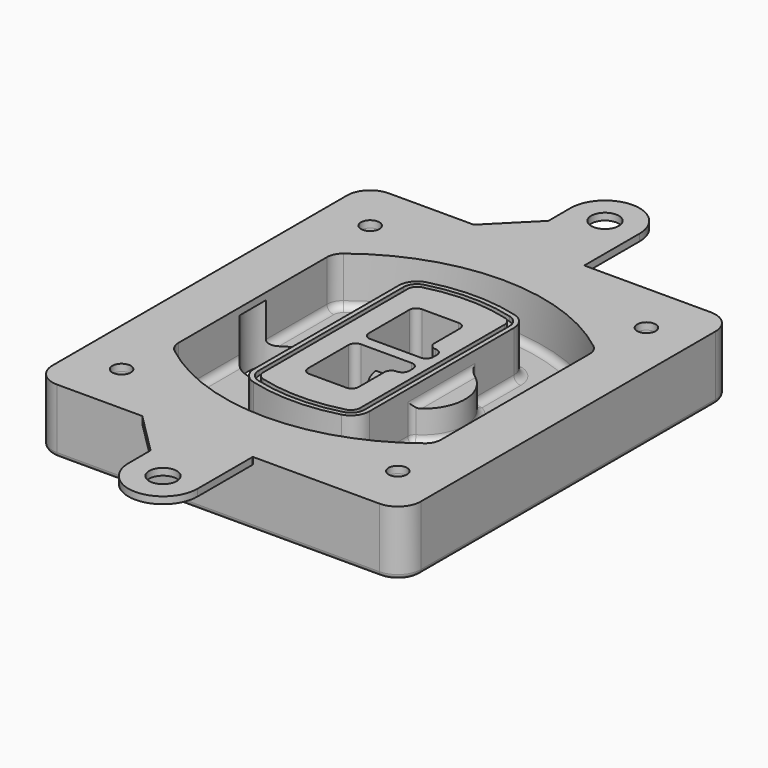
from build123d import *

# Parameters (mm, degrees)
F0_R      = 4
F1_DEPTH  = 25
F2_DEPTH  = 3
F3_DEPTH  = 18
F5_DEPTH  = 21
F6_DEPTH  = 2
F8_DEPTH  = 20
F9_DEPTH  = 16
F10_DEPTH = 25
F7_R      = 6
F7_R_2    = 4
F11_DEPTH = 6
F13_DEPTH = 9
F14_R     = 3
F15_R     = 2
F16_R     = 6
F16_R_2   = 4
F17_DEPTH = 3


with BuildPart() as f1:
    # F0 (on Top) → F1 (new body)
    with BuildSketch(Plane.XY):
        with BuildLine():
            ThreePointArc((-80, -80), (-77.0710678119, -87.0710678119), (-70, -90))
            Line((-70, -90), (70, -90))
            ThreePointArc((70, -90), (77.0710678119, -87.0710678119), (80, -80))
            Line((80, -80), (80, 80))
            ThreePointArc((80, 80), (77.0710678119, 87.0710678119), (70, 90))
            Line((70, 90), (-70, 90))
            ThreePointArc((-70, 90), (-77.0710678119, 87.0710678119), (-80, 80))
            Line((-80, 80), (-80, -80))
        make_face()
        with Locations((-60, -67.5)):
            Circle(F0_R, mode=Mode.SUBTRACT)
        with Locations((60, -67.5)):
            Circle(F0_R, mode=Mode.SUBTRACT)
        with Locations((-60, 67.5)):
            Circle(F0_R, mode=Mode.SUBTRACT)
        with BuildLine():
            ThreePointArc((-64, 40.2934422872), (-62.5820384798, 46.4328484224), (-58.6153846154, 51.3286200352))
            ThreePointArc((-58.6153846154, 51.3286200352), (0, 71.5), (58.6153846154, 51.3286200352))
            ThreePointArc((58.6153846154, 51.3286200352), (62.5820384798, 46.4328484224), (64, 40.2934422872))
            Line((64, 40.2934422872), (64, -40.2934422872))
            ThreePointArc((64, -40.2934422872), (62.5820384798, -46.4328484224), (58.6153846154, -51.3286200352))
            ThreePointArc((58.6153846154, -51.3286200352), (0, -71.5), (-58.6153846154, -51.3286200352))
            ThreePointArc((-58.6153846154, -51.3286200352), (-62.5820384798, -46.4328484224), (-64, -40.2934422872))
            Line((-64, -40.2934422872), (-64, 40.2934422872))
        make_face(mode=Mode.SUBTRACT)
        with Locations((60, 67.5)):
            Circle(F0_R, mode=Mode.SUBTRACT)
        with BuildLine():
            ThreePointArc((58.6153846154, 51.3286200352), (0, 71.5), (-58.6153846154, 51.3286200352))
            ThreePointArc((-58.6153846154, 51.3286200352), (-62.5820384798, 46.4328484224), (-64, 40.2934422872))
            Line((-64, 40.2934422872), (-64, -40.2934422872))
            ThreePointArc((-64, -40.2934422872), (-62.5820384798, -46.4328484224), (-58.6153846154, -51.3286200352))
            ThreePointArc((-58.6153846154, -51.3286200352), (0, -71.5), (58.6153846154, -51.3286200352))
            ThreePointArc((58.6153846154, -51.3286200352), (62.5820384798, -46.4328484224), (64, -40.2934422872))
            Line((64, -40.2934422872), (64, 40.2934422872))
            ThreePointArc((64, 40.2934422872), (62.5820384798, 46.4328484224), (58.6153846154, 51.3286200352))
        make_face()
        with BuildLine():
            Line((-60, -40.2934422872), (-60, 40.2934422872))
            ThreePointArc((-60, 40.2934422872), (-58.9871703427, 44.6787323838), (-56.1538461538, 48.1757121072))
            ThreePointArc((-56.1538461538, 48.1757121072), (0, 67.5), (56.1538461538, 48.1757121072))
            ThreePointArc((56.1538461538, 48.1757121072), (58.9871703427, 44.6787323838), (60, 40.2934422872))
            Line((60, 40.2934422872), (60, -40.2934422872))
            ThreePointArc((60, -40.2934422872), (58.9871703427, -44.6787323838), (56.1538461538, -48.1757121072))
            ThreePointArc((56.1538461538, -48.1757121072), (0, -67.5), (-56.1538461538, -48.1757121072))
            ThreePointArc((-56.1538461538, -48.1757121072), (-58.9871703427, -44.6787323838), (-60, -40.2934422872))
        make_face(mode=Mode.SUBTRACT)
        with BuildLine():
            ThreePointArc((-56.1538461538, 48.1757121072), (-58.9871703427, 44.6787323838), (-60, 40.2934422872))
            Line((-60, 40.2934422872), (-60, -40.2934422872))
            ThreePointArc((-60, -40.2934422872), (-58.9871703427, -44.6787323838), (-56.1538461538, -48.1757121072))
            ThreePointArc((-56.1538461538, -48.1757121072), (0, -67.5), (56.1538461538, -48.1757121072))
            ThreePointArc((56.1538461538, -48.1757121072), (58.9871703427, -44.6787323838), (60, -40.2934422872))
            Line((60, -40.2934422872), (60, 40.2934422872))
            ThreePointArc((60, 40.2934422872), (58.9871703427, 44.6787323838), (56.1538461538, 48.1757121072))
            ThreePointArc((56.1538461538, 48.1757121072), (0, 67.5), (-56.1538461538, 48.1757121072))
        make_face()
        with BuildLine():
            ThreePointArc((54.3076923077, 45.8110311612), (56.2910192399, 43.3631453548), (57, 40.2934422872))
            Line((57, 40.2934422872), (57, -40.2934422872))
            ThreePointArc((57, -40.2934422872), (56.2910192399, -43.3631453548), (54.3076923077, -45.8110311612))
            ThreePointArc((54.3076923077, -45.8110311612), (0, -64.5), (-54.3076923077, -45.8110311612))
            ThreePointArc((-54.3076923077, -45.8110311612), (-56.2910192399, -43.3631453548), (-57, -40.2934422872))
            Line((-57, -40.2934422872), (-57, 40.2934422872))
            ThreePointArc((-57, 40.2934422872), (-56.2910192399, 43.3631453548), (-54.3076923077, 45.8110311612))
            ThreePointArc((-54.3076923077, 45.8110311612), (0, 64.5), (54.3076923077, 45.8110311612))
        make_face(mode=Mode.SUBTRACT)
        with BuildLine():
            Line((57, -40.2934422872), (57, 40.2934422872))
            ThreePointArc((57, 40.2934422872), (56.2910192399, 43.3631453548), (54.3076923077, 45.8110311612))
            ThreePointArc((54.3076923077, 45.8110311612), (0, 64.5), (-54.3076923077, 45.8110311612))
            ThreePointArc((-54.3076923077, 45.8110311612), (-56.2910192399, 43.3631453548), (-57, 40.2934422872))
            Line((-57, 40.2934422872), (-57, -40.2934422872))
            ThreePointArc((-57, -40.2934422872), (-56.2910192399, -43.3631453548), (-54.3076923077, -45.8110311612))
            ThreePointArc((-54.3076923077, -45.8110311612), (0, -64.5), (54.3076923077, -45.8110311612))
            ThreePointArc((54.3076923077, -45.8110311612), (56.2910192399, -43.3631453548), (57, -40.2934422872))
        make_face()
    extrude(amount=-F1_DEPTH)

    # F0 (on Top) → F2 (join)
    with BuildSketch(Plane.XY):
        with BuildLine():
            ThreePointArc((-56.1538461538, 48.1757121072), (-58.9871703427, 44.6787323838), (-60, 40.2934422872))
            Line((-60, 40.2934422872), (-60, -40.2934422872))
            ThreePointArc((-60, -40.2934422872), (-58.9871703427, -44.6787323838), (-56.1538461538, -48.1757121072))
            ThreePointArc((-56.1538461538, -48.1757121072), (0, -67.5), (56.1538461538, -48.1757121072))
            ThreePointArc((56.1538461538, -48.1757121072), (58.9871703427, -44.6787323838), (60, -40.2934422872))
            Line((60, -40.2934422872), (60, 40.2934422872))
            ThreePointArc((60, 40.2934422872), (58.9871703427, 44.6787323838), (56.1538461538, 48.1757121072))
            ThreePointArc((56.1538461538, 48.1757121072), (0, 67.5), (-56.1538461538, 48.1757121072))
        make_face()
        with BuildLine():
            ThreePointArc((54.3076923077, 45.8110311612), (56.2910192399, 43.3631453548), (57, 40.2934422872))
            Line((57, 40.2934422872), (57, -40.2934422872))
            ThreePointArc((57, -40.2934422872), (56.2910192399, -43.3631453548), (54.3076923077, -45.8110311612))
            ThreePointArc((54.3076923077, -45.8110311612), (0, -64.5), (-54.3076923077, -45.8110311612))
            ThreePointArc((-54.3076923077, -45.8110311612), (-56.2910192399, -43.3631453548), (-57, -40.2934422872))
            Line((-57, -40.2934422872), (-57, 40.2934422872))
            ThreePointArc((-57, 40.2934422872), (-56.2910192399, 43.3631453548), (-54.3076923077, 45.8110311612))
            ThreePointArc((-54.3076923077, 45.8110311612), (0, 64.5), (54.3076923077, 45.8110311612))
        make_face(mode=Mode.SUBTRACT)
    extrude(amount=F2_DEPTH)

    # F0 (on Top) → F3 (cut)
    with BuildSketch(Plane.XY):
        with BuildLine():
            Line((57, -40.2934422872), (57, 40.2934422872))
            ThreePointArc((57, 40.2934422872), (56.2910192399, 43.3631453548), (54.3076923077, 45.8110311612))
            ThreePointArc((54.3076923077, 45.8110311612), (0, 64.5), (-54.3076923077, 45.8110311612))
            ThreePointArc((-54.3076923077, 45.8110311612), (-56.2910192399, 43.3631453548), (-57, 40.2934422872))
            Line((-57, 40.2934422872), (-57, -40.2934422872))
            ThreePointArc((-57, -40.2934422872), (-56.2910192399, -43.3631453548), (-54.3076923077, -45.8110311612))
            ThreePointArc((-54.3076923077, -45.8110311612), (0, -64.5), (54.3076923077, -45.8110311612))
            ThreePointArc((54.3076923077, -45.8110311612), (56.2910192399, -43.3631453548), (57, -40.2934422872))
        make_face()
    extrude(amount=-F3_DEPTH, mode=Mode.SUBTRACT)

    # F4 (on face) → F5 (join, through all)
    with BuildSketch(Plane.XY.offset(3)):
        with BuildLine():
            ThreePointArc((-25, -39.2465276821), (-23.3511545998, -44.1109737193), (-19.0842911877, -46.9702398883))
            ThreePointArc((-19.0842911877, -46.9702398883), (0, -49.5), (19.0842911877, -46.9702398883))
            ThreePointArc((19.0842911877, -46.9702398883), (23.3511545998, -44.1109737193), (25, -39.2465276821))
            Line((25, -39.2465276821), (25, 39.2465276821))
            ThreePointArc((25, 39.2465276821), (23.3511545998, 44.1109737193), (19.0842911877, 46.9702398883))
            ThreePointArc((19.0842911877, 46.9702398883), (0, 49.5), (-19.0842911877, 46.9702398883))
            ThreePointArc((-19.0842911877, 46.9702398883), (-23.3511545998, 44.1109737193), (-25, 39.2465276821))
            Line((-25, 39.2465276821), (-25, -39.2465276821))
        make_face()
        with BuildLine():
            ThreePointArc((18.5632183908, 45.0393118368), (21.7633659499, 42.89486221), (23, 39.2465276821))
            Line((23, 39.2465276821), (23, -39.2465276821))
            ThreePointArc((23, -39.2465276821), (21.7633659499, -42.89486221), (18.5632183908, -45.0393118368))
            ThreePointArc((18.5632183908, -45.0393118368), (0, -47.5), (-18.5632183908, -45.0393118368))
            ThreePointArc((-18.5632183908, -45.0393118368), (-21.7633659499, -42.89486221), (-23, -39.2465276821))
            Line((-23, -39.2465276821), (-23, 39.2465276821))
            ThreePointArc((-23, 39.2465276821), (-21.7633659499, 42.89486221), (-18.5632183908, 45.0393118368))
            ThreePointArc((-18.5632183908, 45.0393118368), (0, 47.5), (18.5632183908, 45.0393118368))
        make_face(mode=Mode.SUBTRACT)
        with BuildLine():
            Line((23, -39.2465276821), (23, 39.2465276821))
            ThreePointArc((23, 39.2465276821), (21.7633659499, 42.89486221), (18.5632183908, 45.0393118368))
            ThreePointArc((18.5632183908, 45.0393118368), (0, 47.5), (-18.5632183908, 45.0393118368))
            ThreePointArc((-18.5632183908, 45.0393118368), (-21.7633659499, 42.89486221), (-23, 39.2465276821))
            Line((-23, 39.2465276821), (-23, -39.2465276821))
            ThreePointArc((-23, -39.2465276821), (-21.7633659499, -42.89486221), (-18.5632183908, -45.0393118368))
            ThreePointArc((-18.5632183908, -45.0393118368), (0, -47.5), (18.5632183908, -45.0393118368))
            ThreePointArc((18.5632183908, -45.0393118368), (21.7633659499, -42.89486221), (23, -39.2465276821))
        make_face()
        with BuildLine():
            ThreePointArc((18.0421455939, 43.1083837852), (20.1755772999, 41.6787507007), (21, 39.2465276821))
            Line((21, 39.2465276821), (21, -39.2465276821))
            ThreePointArc((21, -39.2465276821), (20.1755772999, -41.6787507007), (18.0421455939, -43.1083837852))
            ThreePointArc((18.0421455939, -43.1083837852), (0, -45.5), (-18.0421455939, -43.1083837852))
            ThreePointArc((-18.0421455939, -43.1083837852), (-20.1755772999, -41.6787507007), (-21, -39.2465276821))
            Line((-21, -39.2465276821), (-21, 39.2465276821))
            ThreePointArc((-21, 39.2465276821), (-20.1755772999, 41.6787507007), (-18.0421455939, 43.1083837852))
            ThreePointArc((-18.0421455939, 43.1083837852), (0, 45.5), (18.0421455939, 43.1083837852))
        make_face(mode=Mode.SUBTRACT)
        with BuildLine():
            Line((21, -39.2465276821), (21, 39.2465276821))
            ThreePointArc((21, 39.2465276821), (20.1755772999, 41.6787507007), (18.0421455939, 43.1083837852))
            ThreePointArc((18.0421455939, 43.1083837852), (0, 45.5), (-18.0421455939, 43.1083837852))
            ThreePointArc((-18.0421455939, 43.1083837852), (-20.1755772999, 41.6787507007), (-21, 39.2465276821))
            Line((-21, 39.2465276821), (-21, -39.2465276821))
            ThreePointArc((-21, -39.2465276821), (-20.1755772999, -41.6787507007), (-18.0421455939, -43.1083837852))
            ThreePointArc((-18.0421455939, -43.1083837852), (0, -45.5), (18.0421455939, -43.1083837852))
            ThreePointArc((18.0421455939, -43.1083837852), (20.1755772999, -41.6787507007), (21, -39.2465276821))
        make_face()
        with BuildLine():
            Line((-8, -2.5), (14, -2.5))
            ThreePointArc((14, -2.5), (16.1213203436, -3.3786796564), (17, -5.5))
            Line((17, -5.5), (17, -7.5))
            ThreePointArc((17, -7.5), (16.1213203436, -9.6213203436), (14, -10.5))
            ThreePointArc((14, -10.5), (11.8786796564, -11.3786796564), (11, -13.5))
            Line((11, -13.5), (11, -27.5))
            ThreePointArc((11, -27.5), (10.1213203436, -29.6213203436), (8, -30.5))
            Line((8, -30.5), (-8, -30.5))
            ThreePointArc((-8, -30.5), (-10.1213203436, -29.6213203436), (-11, -27.5))
            Line((-11, -27.5), (-11, -5.5))
            ThreePointArc((-11, -5.5), (-10.1213203436, -3.3786796564), (-8, -2.5))
        make_face(mode=Mode.SUBTRACT)
        with BuildLine():
            ThreePointArc((-8, 2.5), (-10.1213203436, 3.3786796564), (-11, 5.5))
            Line((-11, 5.5), (-11, 27.5))
            ThreePointArc((-11, 27.5), (-10.1213203436, 29.6213203436), (-8, 30.5))
            Line((-8, 30.5), (8, 30.5))
            ThreePointArc((8, 30.5), (10.1213203436, 29.6213203436), (11, 27.5))
            Line((11, 27.5), (11, 13.5))
            ThreePointArc((11, 13.5), (11.8786796564, 11.3786796564), (14, 10.5))
            ThreePointArc((14, 10.5), (16.1213203436, 9.6213203436), (17, 7.5))
            Line((17, 7.5), (17, 5.5))
            ThreePointArc((17, 5.5), (16.1213203436, 3.3786796564), (14, 2.5))
            Line((14, 2.5), (-8, 2.5))
        make_face(mode=Mode.SUBTRACT)
    extrude(amount=-F5_DEPTH)

    # F4 (on face) → F6 (cut)
    with BuildSketch(Plane.XY.offset(3)):
        with BuildLine():
            Line((23, -39.2465276821), (23, 39.2465276821))
            ThreePointArc((23, 39.2465276821), (21.7633659499, 42.89486221), (18.5632183908, 45.0393118368))
            ThreePointArc((18.5632183908, 45.0393118368), (0, 47.5), (-18.5632183908, 45.0393118368))
            ThreePointArc((-18.5632183908, 45.0393118368), (-21.7633659499, 42.89486221), (-23, 39.2465276821))
            Line((-23, 39.2465276821), (-23, -39.2465276821))
            ThreePointArc((-23, -39.2465276821), (-21.7633659499, -42.89486221), (-18.5632183908, -45.0393118368))
            ThreePointArc((-18.5632183908, -45.0393118368), (0, -47.5), (18.5632183908, -45.0393118368))
            ThreePointArc((18.5632183908, -45.0393118368), (21.7633659499, -42.89486221), (23, -39.2465276821))
        make_face()
        with BuildLine():
            ThreePointArc((18.0421455939, 43.1083837852), (20.1755772999, 41.6787507007), (21, 39.2465276821))
            Line((21, 39.2465276821), (21, -39.2465276821))
            ThreePointArc((21, -39.2465276821), (20.1755772999, -41.6787507007), (18.0421455939, -43.1083837852))
            ThreePointArc((18.0421455939, -43.1083837852), (0, -45.5), (-18.0421455939, -43.1083837852))
            ThreePointArc((-18.0421455939, -43.1083837852), (-20.1755772999, -41.6787507007), (-21, -39.2465276821))
            Line((-21, -39.2465276821), (-21, 39.2465276821))
            ThreePointArc((-21, 39.2465276821), (-20.1755772999, 41.6787507007), (-18.0421455939, 43.1083837852))
            ThreePointArc((-18.0421455939, 43.1083837852), (0, 45.5), (18.0421455939, 43.1083837852))
        make_face(mode=Mode.SUBTRACT)
    extrude(amount=-F6_DEPTH, mode=Mode.SUBTRACT)

    # F7 (on face) → F8 (join)
    with BuildSketch(Plane(origin=(0, 0, -25), x_dir=(1, 0, 0), z_dir=(0, 0, -1))):
        with BuildLine():
            ThreePointArc((3.28842436, 0), (16.7567035675, 13.4682792075), (30.224982775, 0))
            Line((30.224982775, 0), (35.224982775, 0))
            ThreePointArc((35.224982775, 0), (16.7567035675, 18.4682792075), (-1.71157564, 0))
            Line((-1.71157564, 0), (3.28842436, 0))
        make_face()
        with BuildLine():
            Line((3.28842436, 0), (30.224982775, 0))
            ThreePointArc((30.224982775, 0), (16.7567035675, 13.4682792075), (3.28842436, 0))
        make_face()
        with BuildLine():
            ThreePointArc((3.28842436, 0), (16.7567035675, -13.4682792075), (30.224982775, 0))
            Line((30.224982775, 0), (3.28842436, 0))
        make_face()
        with BuildLine():
            Line((35.224982775, 0), (30.224982775, 0))
            ThreePointArc((30.224982775, 0), (16.7567035675, -13.4682792075), (3.28842436, 0))
            Line((3.28842436, 0), (-1.71157564, 0))
            ThreePointArc((-1.71157564, 0), (16.7567035675, -18.4682792075), (35.224982775, 0))
        make_face()
    extrude(amount=-F8_DEPTH)

    # F7 (on face) → F9 (cut)
    with BuildSketch(Plane(origin=(0, 0, -25), x_dir=(1, 0, 0), z_dir=(0, 0, -1))):
        with BuildLine():
            Line((3.28842436, 0), (30.224982775, 0))
            ThreePointArc((30.224982775, 0), (16.7567035675, 13.4682792075), (3.28842436, 0))
        make_face()
        with BuildLine():
            ThreePointArc((3.28842436, 0), (16.7567035675, -13.4682792075), (30.224982775, 0))
            Line((30.224982775, 0), (3.28842436, 0))
        make_face()
    extrude(amount=-F9_DEPTH, mode=Mode.SUBTRACT)

    # F7 (on face) → F10 (cut)
    with BuildSketch(Plane(origin=(0, 0, -25), x_dir=(1, 0, 0), z_dir=(0, 0, -1))):
        with BuildLine():
            Line((-59.0318229325, 0), (-32.0952645175, 0))
            ThreePointArc((-32.0952645175, 0), (-45.563543725, 13.4682792075), (-59.0318229325, 0))
        make_face()
        with BuildLine():
            ThreePointArc((-59.0318229325, 0), (-45.563543725, -13.4682792075), (-32.0952645175, 0))
            Line((-32.0952645175, 0), (-59.0318229325, 0))
        make_face()
    extrude(amount=-F10_DEPTH, mode=Mode.SUBTRACT)

    # F7 (on face) → F11 (cut)
    with BuildSketch(Plane(origin=(0, 0, -25), x_dir=(1, 0, 0), z_dir=(0, 0, -1))):
        with Locations((60, -67.5)):
            Circle(F7_R)
        with Locations((60, -67.5)):
            Circle(F7_R_2, mode=Mode.SUBTRACT)
        with Locations((60, -67.5)):
            Circle(F7_R)
        with Locations((60, -67.5)):
            Circle(F7_R_2, mode=Mode.SUBTRACT)
        with Locations((-60, -67.5)):
            Circle(F7_R)
        with Locations((-60, -67.5)):
            Circle(F7_R_2, mode=Mode.SUBTRACT)
        with Locations((-60, -67.5)):
            Circle(F7_R)
        with Locations((-60, -67.5)):
            Circle(F7_R_2, mode=Mode.SUBTRACT)
        with Locations((-60, 67.5)):
            Circle(F7_R)
        with Locations((-60, 67.5)):
            Circle(F7_R_2, mode=Mode.SUBTRACT)
        with Locations((-60, 67.5)):
            Circle(F7_R)
        with Locations((-60, 67.5)):
            Circle(F7_R_2, mode=Mode.SUBTRACT)
        with Locations((60, 67.5)):
            Circle(F7_R)
        with Locations((60, 67.5)):
            Circle(F7_R_2, mode=Mode.SUBTRACT)
        with Locations((60, 67.5)):
            Circle(F7_R)
        with Locations((60, 67.5)):
            Circle(F7_R_2, mode=Mode.SUBTRACT)
    extrude(amount=-F11_DEPTH, mode=Mode.SUBTRACT)

    # F12 (on face) → F13 (cut, through all)
    with BuildSketch(Plane(origin=(0, 0, -9), x_dir=(1, 0, 0), z_dir=(0, 0, -1))):
        with BuildLine():
            Line((11, 13.5), (11, 17.5481537753))
            ThreePointArc((11, 17.5481537753), (2.5696536419, 11.8239143813), (-1.5415842455, 2.5))
            Line((-1.5415842455, 2.5), (3.5224848595, 2.5))
            ThreePointArc((3.5224848595, 2.5), (6.1857188154, 8.3455872281), (11.2536447004, 12.2927168648))
            ThreePointArc((11.2536447004, 12.2927168648), (11.0640958889, 12.8831798879), (11, 13.5))
        make_face()
        with BuildLine():
            ThreePointArc((11.2536447004, -12.2927168648), (6.1857188154, -8.3455872281), (3.5224848595, -2.5))
            Line((3.5224848595, -2.5), (-1.5415842455, -2.5))
            ThreePointArc((-1.5415842455, -2.5), (2.5696536419, -11.8239143813), (11, -17.5481537753))
            Line((11, -17.5481537753), (11, -13.5))
            ThreePointArc((11, -13.5), (11.0640958889, -12.8831798879), (11.2536447004, -12.2927168648))
        make_face()
        with BuildLine():
            ThreePointArc((11.2536447004, 12.2927168648), (6.1857188154, 8.3455872281), (3.5224848595, 2.5))
            Line((3.5224848595, 2.5), (14, 2.5))
            ThreePointArc((14, 2.5), (16.1213203436, 3.3786796564), (17, 5.5))
            Line((17, 5.5), (17, 7.5))
            ThreePointArc((17, 7.5), (16.1213203436, 9.6213203436), (14, 10.5))
            ThreePointArc((14, 10.5), (12.3601599782, 10.9878446101), (11.2536447004, 12.2927168648))
        make_face()
        with BuildLine():
            Line((14, -2.5), (3.5224848595, -2.5))
            ThreePointArc((3.5224848595, -2.5), (6.1857188154, -8.3455872281), (11.2536447004, -12.2927168648))
            ThreePointArc((11.2536447004, -12.2927168648), (12.3601599782, -10.9878446101), (14, -10.5))
            ThreePointArc((14, -10.5), (16.1213203436, -9.6213203436), (17, -7.5))
            Line((17, -7.5), (17, -5.5))
            ThreePointArc((17, -5.5), (16.1213203436, -3.3786796564), (14, -2.5))
        make_face()
    extrude(amount=F13_DEPTH, mode=Mode.SUBTRACT)

    # F14
    f14_edges = [f1.edges().sort_by_distance(p)[0] for p in [
        (-57, -23.703476, -18),
        (-57, 23.703476, -18),
        (25, 0, -5),
        (25, 16.526506, -11.5),
        (25, -16.526506, -11.5),
        (25, -27.886517, -18),
        (35.224983, 0, -18),
    ]]
    fillet(f14_edges, radius=F14_R)

    # F15
    f15_edges = [f1.edges().sort_by_distance(p)[0] for p in [
        (0, -90, -25),
    ]]
    fillet(f15_edges, radius=F15_R)

    # F16 (on face) → F17 (join, through all)
    with BuildSketch(Plane.XY):
        with BuildLine():
            Line((15.0340515097, -90), (-33, -90))
            Line((-33, -90), (-15, -108))
            Line((-15, -108), (-15, -120))
            ThreePointArc((-15, -120), (0, -135), (15, -120))
            Line((15, -120), (15, -90.0340515097))
            Line((15, -90.0340515097), (15.0340515097, -90))
        make_face()
        with Locations((0, -120)):
            Circle(F16_R, mode=Mode.SUBTRACT)
        with BuildLine():
            Line((15.0340515097, 90), (-33, 90))
            Line((-33, 90), (-70, 90))
            ThreePointArc((-70, 90), (-77.0710678119, 87.0710678119), (-80, 80))
            Line((-80, 80), (-80, -80))
            ThreePointArc((-80, -80), (-77.0710678119, -87.0710678119), (-70, -90))
            Line((-70, -90), (-33, -90))
            Line((-33, -90), (15.0340515097, -90))
            Line((15.0340515097, -90), (70, -90))
            ThreePointArc((70, -90), (77.0710678119, -87.0710678119), (80, -80))
            Line((80, -80), (80, 80))
            ThreePointArc((80, 80), (77.0710678119, 87.0710678119), (70, 90))
            Line((70, 90), (15.0340515097, 90))
        make_face()
        with Locations((-60, -67.5)):
            Circle(F16_R_2, mode=Mode.SUBTRACT)
        with Locations((60, -67.5)):
            Circle(F16_R_2, mode=Mode.SUBTRACT)
        with Locations((-60, 67.5)):
            Circle(F16_R_2, mode=Mode.SUBTRACT)
        with BuildLine():
            ThreePointArc((-60, 40.2934422872), (-58.9871703427, 44.6787323838), (-56.1538461538, 48.1757121072))
            ThreePointArc((-56.1538461538, 48.1757121072), (0, 67.5), (56.1538461538, 48.1757121072))
            ThreePointArc((56.1538461538, 48.1757121072), (58.9871703427, 44.6787323838), (60, 40.2934422872))
            Line((60, 40.2934422872), (60, -40.2934422872))
            ThreePointArc((60, -40.2934422872), (58.9871703427, -44.6787323838), (56.1538461538, -48.1757121072))
            ThreePointArc((56.1538461538, -48.1757121072), (0, -67.5), (-56.1538461538, -48.1757121072))
            ThreePointArc((-56.1538461538, -48.1757121072), (-58.9871703427, -44.6787323838), (-60, -40.2934422872))
            Line((-60, -40.2934422872), (-60, 40.2934422872))
        make_face(mode=Mode.SUBTRACT)
        with Locations((60, 67.5)):
            Circle(F16_R_2, mode=Mode.SUBTRACT)
        with BuildLine():
            Line((-15, 120), (-15, 108))
            Line((-15, 108), (-33, 90))
            Line((-33, 90), (15.0340515097, 90))
            Line((15.0340515097, 90), (15, 90.0340515097))
            Line((15, 90.0340515097), (15, 120))
            ThreePointArc((15, 120), (0, 135), (-15, 120))
        make_face()
        with Locations((0, 120)):
            Circle(F16_R, mode=Mode.SUBTRACT)
    extrude(amount=F17_DEPTH)


solid = f1.part
